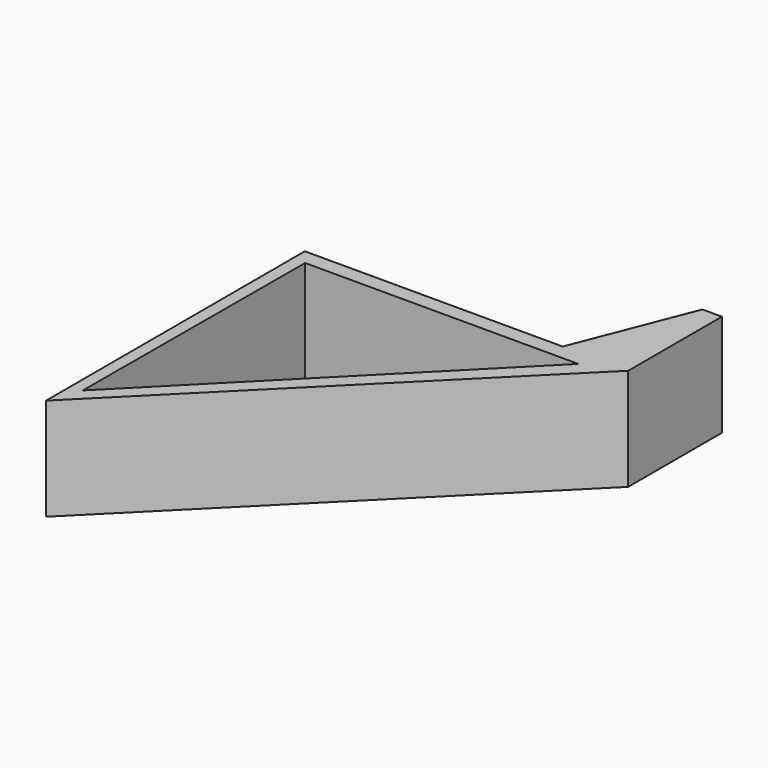
from build123d import *

# Parameters (mm, degrees)
F1_DEPTH = 20


with BuildPart() as f1:
    # F0 (on Top) → F1 (new body)
    with BuildSketch(Plane.XY):
        Polygon((32.906495, 62.388952), (23.906483, 39.479836), (-26.548113, 39.479836), (-26.548113, -23.792955), (36.724676, 39.479836), (36.724676, 62.388952), align=None)
        Polygon((-24.273602, -17.663362), (-24.093566, 36.479836), (29.361032, 36.479836), align=None, mode=Mode.SUBTRACT)
    extrude(amount=F1_DEPTH)


solid = f1.part
